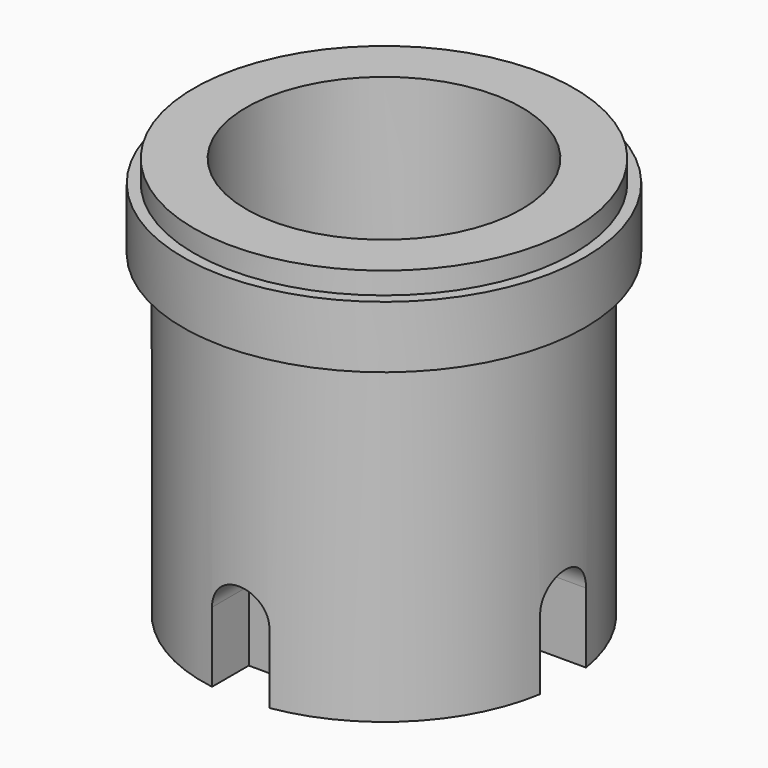
from build123d import *

# Parameters (mm, degrees)
F0_R      = 15.8
F1_DEPTH  = 27.7
F2_R      = 17.5
F2_R_2    = 15.8
F3_DEPTH  = 5.4
F4_R      = 16.55
F5_DEPTH  = 1.9
F7_DEPTH  = 6.1
F8_DEPTH  = 6.1
F9_R      = 2.5
F10_DEPTH = 25
F11_DEPTH = 6.1
F12_R     = 2.5
F13_DEPTH = 25
F15_DEPTH = 25
F16_R     = 2.5
F17_DEPTH = 25
F18_R     = 12
F19_DEPTH = 17.7
F20_R     = 3.35
F21_DEPTH = 33.4


with BuildPart() as f1:
    # F0 (on Top) → F1 (new body)
    with BuildSketch(Plane.XY):
        Circle(F0_R)
    extrude(amount=F1_DEPTH)

    # F2 (on face) → F3 (join)
    with BuildSketch(Plane.XY.offset(27.7)):
        Circle(F2_R)
        Circle(F2_R_2, mode=Mode.SUBTRACT)
        Circle(F2_R_2)
    extrude(amount=F3_DEPTH)

    # F4 (on face) → F5 (join)
    with BuildSketch(Plane.XY.offset(33.1)):
        Circle(F4_R)
    extrude(amount=F5_DEPTH)

    # F6 (on face) → F7 (join)
    with BuildSketch(Plane(origin=(0, 0, 0), x_dir=(1, 0, 0), z_dir=(0, 0, -1))):
        with BuildLine():
            Line((15.6009615088, 2.5), (11.6, 2.5))
            Line((11.6, 2.5), (11.6, -2.5))
            Line((11.6, -2.5), (15.6009615088, -2.5))
            ThreePointArc((15.6009615088, -2.5), (15.7501617744, -1.2539553741), (15.8, 0))
            ThreePointArc((15.8, 0), (15.7501617744, 1.2539553741), (15.6009615088, 2.5))
        make_face()
    extrude(amount=-F7_DEPTH)

    # F6 (on face) → F8 (cut)
    with BuildSketch(Plane(origin=(0, 0, 0), x_dir=(1, 0, 0), z_dir=(0, 0, -1))):
        with BuildLine():
            Line((-2.5, 15.6009615088), (-2.5, 11.6))
            Line((-2.5, 11.6), (2.5, 11.6))
            Line((2.5, 11.6), (2.5, 15.6009615088))
            ThreePointArc((2.5, 15.6009615088), (0, 15.8), (-2.5, 15.6009615088))
        make_face()
    extrude(amount=-F8_DEPTH, mode=Mode.SUBTRACT)

    # F9 (on face) → F10 (cut)
    with BuildSketch(Plane.XZ.offset(11.6)):
        with BuildLine():
            Line((2.5, 0), (2.5, 6.1))
            ThreePointArc((2.5, 6.1), (0, 3.6), (-2.5, 6.1))
            Line((-2.5, 6.1), (-2.5, 0))
            Line((-2.5, 0), (2.5, 0))
        make_face()
        with Locations((0, 6.1)):
            Circle(F9_R)
    extrude(amount=F10_DEPTH, mode=Mode.SUBTRACT)

    # F6 (on face) → F11 (cut)
    with BuildSketch(Plane(origin=(0, 0, 0), x_dir=(1, 0, 0), z_dir=(0, 0, -1))):
        with BuildLine():
            Line((-11.6, -2.5), (-11.6, 2.5))
            Line((-11.6, 2.5), (-15.6009615088, 2.5))
            ThreePointArc((-15.6009615088, 2.5), (-15.8, 0), (-15.6009615088, -2.5))
            Line((-15.6009615088, -2.5), (-11.6, -2.5))
        make_face()
        with BuildLine():
            Line((2.5, -11.6), (-2.5, -11.6))
            Line((-2.5, -11.6), (-2.5, -15.6009615088))
            ThreePointArc((-2.5, -15.6009615088), (0, -15.8), (2.5, -15.6009615088))
            Line((2.5, -15.6009615088), (2.5, -11.6))
        make_face()
        with BuildLine():
            Line((15.6009615088, 2.5), (11.6, 2.5))
            Line((11.6, 2.5), (11.6, -2.5))
            Line((11.6, -2.5), (15.6009615088, -2.5))
            ThreePointArc((15.6009615088, -2.5), (15.7501617744, -1.2539553741), (15.8, 0))
            ThreePointArc((15.8, 0), (15.7501617744, 1.2539553741), (15.6009615088, 2.5))
        make_face()
    extrude(amount=-F11_DEPTH, mode=Mode.SUBTRACT)

    # F12 (on face) → F13 (cut)
    with BuildSketch(Plane(origin=(-11.6, 0, 0), x_dir=(0, -1, 0), z_dir=(-1, 0, 0))):
        with Locations((0, 6.1)):
            Circle(F12_R)
    extrude(amount=F13_DEPTH, mode=Mode.SUBTRACT)

    # F14 (on face) → F15 (cut)
    with BuildSketch(Plane(origin=(0, 11.6, 0), x_dir=(-1, 0, 0), z_dir=(0, 1, 0))):
        with BuildLine():
            Line((-2.5, 6.1), (2.5, 6.1))
            ThreePointArc((2.5, 6.1), (0, 8.6), (-2.5, 6.1))
        make_face()
    extrude(amount=F15_DEPTH, mode=Mode.SUBTRACT)

    # F16 (on face) → F17 (cut)
    with BuildSketch(Plane.YZ.offset(11.6)):
        with Locations((0, 6.1)):
            Circle(F16_R)
    extrude(amount=F17_DEPTH, mode=Mode.SUBTRACT)

    # F18 (on face) → F19 (cut)
    with BuildSketch(Plane.XY.offset(35)):
        Circle(F18_R)
        Circle(F18_R)
    extrude(amount=-F19_DEPTH, mode=Mode.SUBTRACT)

    # F20 (on face) → F21 (cut)
    with BuildSketch(Plane.XY.offset(17.3)):
        Circle(F20_R)
    extrude(amount=-F21_DEPTH, mode=Mode.SUBTRACT)


solid = f1.part
